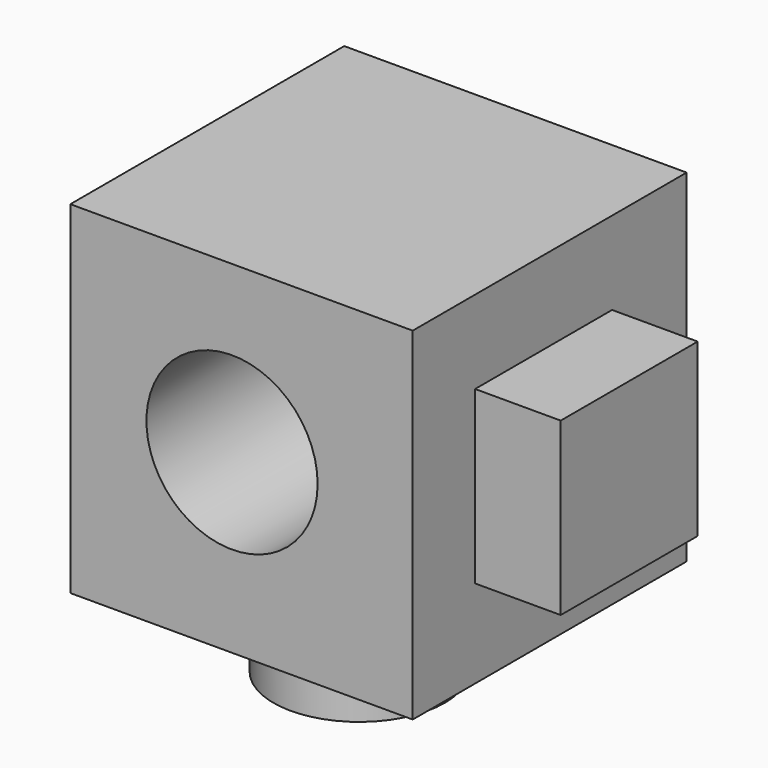
from build123d import *

# Parameters (mm, degrees)
F0_W     = 50.8
F0_H     = 50.8
F1_DEPTH = 50.8
F2_R     = 12.7
F3_DEPTH = 50.8
F4_R     = 12.7
F5_DEPTH = 12.7
F6_W     = 25.4
F6_H     = 25.4
F7_DEPTH = 12.7


with BuildPart() as f1:
    # F0 (on Front) → F1 (new body)
    with BuildSketch(Plane.XZ):
        with Locations((-25.4, 25.4)):
            Rectangle(F0_W, F0_H)
    extrude(amount=F1_DEPTH)

    # F2 (on face) → F3 (cut)
    with BuildSketch(Plane.XZ.offset(50.8)):
        with Locations((-26.809635, 26.181282)):
            Circle(F2_R)
    extrude(amount=-F3_DEPTH, mode=Mode.SUBTRACT)

    # F4 (on face) → F5 (join)
    with BuildSketch(Plane(origin=(0, 0, 0), x_dir=(1, 0, 0), z_dir=(0, 0, -1))):
        with Locations((-27.647436, 26.181282)):
            Circle(F4_R)
    extrude(amount=F5_DEPTH)

    # F6 (on Right) → F7 (join)
    with BuildSketch(Plane.YZ):
        with Locations((-26.526692, 25.775564)):
            Rectangle(F6_W, F6_H)
    extrude(amount=F7_DEPTH)


solid = f1.part
